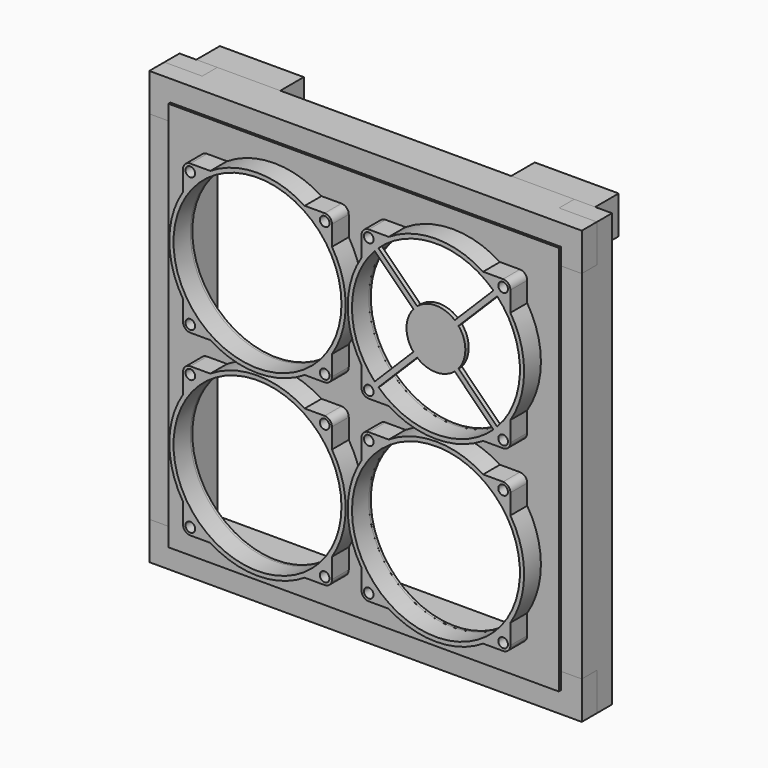
from build123d import *

# Parameters (mm, degrees)
F6_DEPTH  = 45
F9_W      = 45
F9_H      = 515
F10_DEPTH = 45
F13_W     = 100
F13_H     = 45
F14_DEPTH = 35
F15_W     = 465
F15_H     = 465
F16_DEPTH = 3
F17_R     = 100
F18_DEPTH = 83.001
F19_R     = 100
F19_R_2   = 5.742372089
F20_DEPTH = 25
F24_DEPTH = 5


with BuildPart() as f6:
    # F5 (on offset) → F6 (new body)
    with BuildSketch(Plane.XY.offset(212.5)):
        Polygon((-257.5, -22.5), (257.5, -22.5), (257.5, 0), (212.5, 0), (212.5, 22.5), (-212.5, 22.5), (-212.5, 0), (-257.5, 0), align=None)
    extrude(amount=F6_DEPTH)


with BuildPart() as f7_1:
    # F7: instance of F6
    add(f6.part.mirror(Plane.XY))


with BuildPart() as f10:
    # F9 (on offset) → F10 (new body)
    with BuildSketch(Plane.YZ.offset(212.5)):
        Rectangle(F9_W, F9_H)
    extrude(amount=F10_DEPTH)

    # F11: cut F6, F7_1
    add(f6.part, mode=Mode.SUBTRACT)
    add(f7_1.part, mode=Mode.SUBTRACT)


with BuildPart() as f12_1:
    # F12: instance of F10
    add(f10.part.mirror(Plane.YZ))


with BuildPart() as f14:
    # F13 (on face) → F14 (new body)
    with BuildSketch(Plane(origin=(0, 22.5, 0), x_dir=(-1, 0, 0), z_dir=(0, 1, 0))):
        with Locations((-187.5, 235)):
            Rectangle(F13_W, F13_H)
    extrude(amount=F14_DEPTH)


with BuildPart() as f14b:
    # F13 (on face) → F14, piece 2 (new body)
    with BuildSketch(Plane(origin=(0, 22.5, 0), x_dir=(-1, 0, 0), z_dir=(0, 1, 0))):
        with Locations((187.5, 235)):
            Rectangle(F13_W, F13_H)
    extrude(amount=F14_DEPTH)


with BuildPart() as f16:
    # F15 (on face) → F16 (new body)
    with BuildSketch(Plane.XZ.offset(22.5)):
        Rectangle(F15_W, F15_H)
    extrude(amount=F16_DEPTH)

    # F17 (on face) → F18 (cut, through all)
    with BuildSketch(Plane.XZ.offset(25.5)):
        with Locations((106.25, 106.25)):
            Circle(F17_R)
        with Locations((106.25, -106.25)):
            Circle(F17_R)
        with Locations((-106.25, -106.25)):
            Circle(F17_R)
        with Locations((-106.25, 106.25)):
            Circle(F17_R)
    extrude(amount=-F18_DEPTH, mode=Mode.SUBTRACT)


with BuildPart() as f20:
    # F19 (on face) → F20 (new body)
    with BuildSketch(Plane.XZ.offset(25.5)):
        with BuildLine():
            ThreePointArc((-17.5654470761, 50.035677335), (-5.4113217634, 76.982937088), (-1.25, 106.25))
            ThreePointArc((-1.25, 106.25), (-5.4113217634, 135.517062912), (-17.5654470761, 162.464322665))
            ThreePointArc((-17.5654470761, 162.464322665), (-32.0037879754, 180.4962120246), (-50.035677335, 194.9345529239))
            ThreePointArc((-50.035677335, 194.9345529239), (-106.25, 211.25), (-162.464322665, 194.9345529239))
            ThreePointArc((-162.464322665, 194.9345529239), (-180.4962120246, 180.4962120246), (-194.9345529239, 162.464322665))
            ThreePointArc((-194.9345529239, 162.464322665), (-211.25, 106.25), (-194.9345529239, 50.035677335))
            ThreePointArc((-194.9345529239, 50.035677335), (-180.4962120246, 32.0037879754), (-162.464322665, 17.5654470761))
            ThreePointArc((-162.464322665, 17.5654470761), (-106.25, 1.25), (-50.035677335, 17.5654470761))
            ThreePointArc((-50.035677335, 17.5654470761), (-32.0037879754, 32.0037879754), (-17.5654470761, 50.035677335))
        make_face()
        with Locations((-106.25, 106.25)):
            Circle(F19_R, mode=Mode.SUBTRACT)
        with BuildLine():
            ThreePointArc((-50.035677335, 194.9345529239), (-32.0037879754, 180.4962120246), (-17.5654470761, 162.464322665))
            Line((-17.5654470761, 162.464322665), (-17.5654470761, 186.25))
            ThreePointArc((-17.5654470761, 186.25), (-20.1090937359, 192.3909062641), (-26.25, 194.9345529239))
            Line((-26.25, 194.9345529239), (-50.035677335, 194.9345529239))
        make_face()
        with Locations((-26.25, 186.25)):
            Circle(F19_R_2, mode=Mode.SUBTRACT)
        with BuildLine():
            Line((-17.5654470761, 26.25), (-17.5654470761, 50.035677335))
            ThreePointArc((-17.5654470761, 50.035677335), (-32.0037879754, 32.0037879754), (-50.035677335, 17.5654470761))
            Line((-50.035677335, 17.5654470761), (-26.25, 17.5654470761))
            ThreePointArc((-26.25, 17.5654470761), (-20.1090937359, 20.1090937359), (-17.5654470761, 26.25))
        make_face()
        with Locations((-26.25, 26.25)):
            Circle(F19_R_2, mode=Mode.SUBTRACT)
        with BuildLine():
            ThreePointArc((-194.9345529239, 162.464322665), (-180.4962120246, 180.4962120246), (-162.464322665, 194.9345529239))
            Line((-162.464322665, 194.9345529239), (-186.25, 194.9345529239))
            ThreePointArc((-186.25, 194.9345529239), (-192.3909062641, 192.3909062641), (-194.9345529239, 186.25))
            Line((-194.9345529239, 186.25), (-194.9345529239, 162.464322665))
        make_face()
        with Locations((-186.25, 186.25)):
            Circle(F19_R_2, mode=Mode.SUBTRACT)
        with BuildLine():
            Line((-186.25, 17.5654470761), (-162.464322665, 17.5654470761))
            ThreePointArc((-162.464322665, 17.5654470761), (-180.4962120246, 32.0037879754), (-194.9345529239, 50.035677335))
            Line((-194.9345529239, 50.035677335), (-194.9345529239, 26.25))
            ThreePointArc((-194.9345529239, 26.25), (-192.3909062641, 20.1090937359), (-186.25, 17.5654470761))
        make_face()
        with Locations((-186.25, 26.25)):
            Circle(F19_R_2, mode=Mode.SUBTRACT)
    extrude(amount=F20_DEPTH)


with BuildPart() as f21_1:
    # F21: instance of F20
    add(f20.part.mirror(Plane.YZ))


with BuildPart() as f22_1:
    # F22: instance of F20
    add(f20.part.mirror(Plane.XY))


with BuildPart() as f22_2:
    # F22: instance of F21_1
    add(f21_1.part.mirror(Plane.XY))


with BuildPart() as f21_1_1:
    add(f21_1.part)

    # F23 (on face) → F24 (join)
    with BuildSketch(Plane.XZ.offset(50.5)):
        with BuildLine():
            ThreePointArc((133.1295265831, 83.8336878441), (139.1573200854, 94.3290820489), (141.25, 106.25))
            ThreePointArc((141.25, 106.25), (139.1573200854, 118.1709179511), (133.1295265831, 128.6663121559))
            Line((133.1295265831, 128.6663121559), (127.453280706, 122.9900662787))
            Line((127.453280706, 122.9900662787), (122.9900662787, 127.453280706))
            Line((122.9900662787, 127.453280706), (128.6663121559, 133.1295265831))
            ThreePointArc((128.6663121559, 133.1295265831), (106.25, 141.25), (83.8336878441, 133.1295265831))
            Line((83.8336878441, 133.1295265831), (87.1759418398, 129.7872725874))
            Line((87.1759418398, 129.7872725874), (82.7127274126, 125.3240581602))
            Line((82.7127274126, 125.3240581602), (79.3704734169, 128.6663121559))
            ThreePointArc((79.3704734169, 128.6663121559), (71.25, 106.25), (79.3704734169, 83.8336878441))
            Line((79.3704734169, 83.8336878441), (85.2180663496, 89.6812807769))
            Line((85.2180663496, 89.6812807769), (89.6812807769, 85.2180663496))
            Line((89.6812807769, 85.2180663496), (83.8336878441, 79.3704734169))
            ThreePointArc((83.8336878441, 79.3704734169), (106.25, 71.25), (128.6663121559, 79.3704734169))
            Line((128.6663121559, 79.3704734169), (122.8187192231, 85.2180663496))
            Line((122.8187192231, 85.2180663496), (127.2819336504, 89.6812807769))
            Line((127.2819336504, 89.6812807769), (133.1295265831, 83.8336878441))
        make_face()
        with BuildLine():
            Line((127.453280706, 122.9900662787), (133.1295265831, 128.6663121559))
            ThreePointArc((133.1295265831, 128.6663121559), (130.9987373415, 130.9987373415), (128.6663121559, 133.1295265831))
            Line((128.6663121559, 133.1295265831), (122.9900662787, 127.453280706))
            Line((122.9900662787, 127.453280706), (127.453280706, 122.9900662787))
        make_face()
        with BuildLine():
            ThreePointArc((128.6663121559, 133.1295265831), (130.9987373415, 130.9987373415), (133.1295265831, 128.6663121559))
            Line((133.1295265831, 128.6663121559), (181.9353011437, 177.4720867164))
            Line((181.9353011437, 177.4720867164), (177.3254375905, 181.7886520177))
            Line((177.3254375905, 181.7886520177), (128.6663121559, 133.1295265831))
        make_face()
        with BuildLine():
            Line((181.4799539745, 35.4832604527), (133.1295265831, 83.8336878441))
            ThreePointArc((133.1295265831, 83.8336878441), (130.9987373415, 81.5012626585), (128.6663121559, 79.3704734169))
            Line((128.6663121559, 79.3704734169), (175.4204524681, 32.6163331047))
            Line((175.4204524681, 32.6163331047), (181.4799539745, 35.4832604527))
        make_face()
        with BuildLine():
            ThreePointArc((128.6663121559, 79.3704734169), (130.9987373415, 81.5012626585), (133.1295265831, 83.8336878441))
            Line((133.1295265831, 83.8336878441), (127.2819336504, 89.6812807769))
            Line((127.2819336504, 89.6812807769), (122.8187192231, 85.2180663496))
            Line((122.8187192231, 85.2180663496), (128.6663121559, 79.3704734169))
        make_face()
        with BuildLine():
            Line((87.1759418398, 129.7872725874), (83.8336878441, 133.1295265831))
            ThreePointArc((83.8336878441, 133.1295265831), (81.5012626585, 130.9987373415), (79.3704734169, 128.6663121559))
            Line((79.3704734169, 128.6663121559), (82.7127274126, 125.3240581602))
            Line((82.7127274126, 125.3240581602), (87.1759418398, 129.7872725874))
        make_face()
        with BuildLine():
            ThreePointArc((79.3704734169, 128.6663121559), (81.5012626585, 130.9987373415), (83.8336878441, 133.1295265831))
            Line((83.8336878441, 133.1295265831), (35.1745624095, 181.7886520177))
            Line((35.1745624095, 181.7886520177), (30.9577239677, 177.079061605))
            Line((30.9577239677, 177.079061605), (79.3704734169, 128.6663121559))
        make_face()
        with BuildLine():
            Line((35.8948269859, 31.4316125587), (83.8336878441, 79.3704734169))
            ThreePointArc((83.8336878441, 79.3704734169), (81.5012626585, 81.5012626585), (79.3704734169, 83.8336878441))
            Line((79.3704734169, 83.8336878441), (30.9577239677, 35.420938395))
            Line((30.9577239677, 35.420938395), (35.8948269859, 31.4316125587))
        make_face()
        with BuildLine():
            ThreePointArc((79.3704734169, 83.8336878441), (81.5012626585, 81.5012626585), (83.8336878441, 79.3704734169))
            Line((83.8336878441, 79.3704734169), (89.6812807769, 85.2180663496))
            Line((89.6812807769, 85.2180663496), (85.2180663496, 89.6812807769))
            Line((85.2180663496, 89.6812807769), (79.3704734169, 83.8336878441))
        make_face()
    extrude(amount=-F24_DEPTH)


solid = Compound([f6.part, f7_1.part, f10.part, f12_1.part, f14.part, f14b.part, f16.part, f20.part, f22_1.part, f22_2.part, f21_1_1.part])
